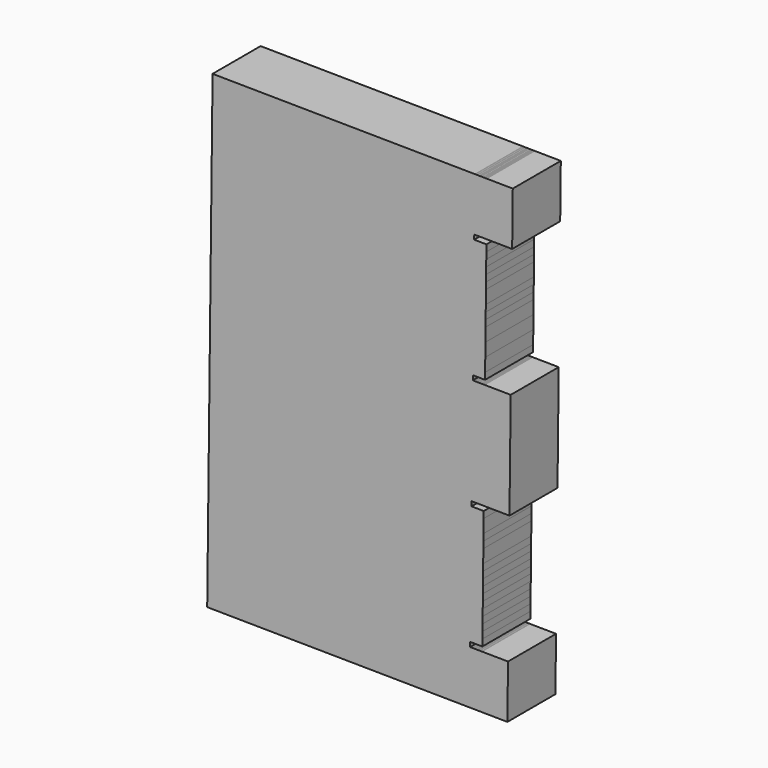
from build123d import *

# Parameters (mm, degrees)
F1_DEPTH = 100
F2_SCALE = 0.3937


with BuildPart() as f1:
    # F0 (on Front) → F1 (new body)
    with BuildSketch(Plane.XZ):
        Polygon((-253.359285, -293.078281), (-254.4597146, -389.5920072), (182.3918882, -394.5729472), (183.49976, -394.5855964), (184.6076064, -394.5982202), (185.7154782, -394.610844), (186.8233246, -394.6234932), (187.9311964, -394.636117), (189.0390428, -394.6487408), (190.1469146, -394.66139), (191.254761, -394.6740138), (192.3626328, -394.6866376), (193.4705046, -394.6992868), (194.578351, -394.7119106), (195.6862228, -394.7245344), (196.7940692, -394.7371582), (197.901941, -394.7498074), (199.0098128, -394.7624312), (200.1176592, -394.775055), (201.2255056, -394.7877042), (202.3333774, -394.800328), (245.5105834, -395.2926308), (246.524145, -306.3983966), (203.346939, -305.9061192), (202.2390672, -305.89347), (201.1312208, -305.8808462), (200.0233744, -305.8682224), (198.9155026, -305.8555732), (197.8076308, -305.8429494), (196.6997844, -305.8303256), (195.5919126, -305.8176764), (194.4840662, -305.8050526), (193.3761944, -305.7924288), (192.2683226, -305.7797796), (191.1604762, -305.7671558), (190.0526044, -305.754532), (188.944758, -305.7418828), (187.8368862, -305.729259), (186.7290398, -305.7166352), (185.621168, -305.7040114), (184.5133216, -305.6913622), (183.4054498, -305.6787384), (183.4923178, -298.059221), (203.810997, -298.2908944), (203.9373366, -287.2123034), (204.0636508, -276.133687), (204.189965, -265.055096), (204.3162792, -253.9764796), (204.4425934, -242.8978886), (204.5689076, -231.8192722), (204.6952218, -220.7406812), (204.821536, -209.6620648), (204.9478756, -198.5834738), (205.0741898, -187.5048574), (205.200504, -176.4262664), (205.3268182, -165.34765), (205.4531324, -154.2690336), (205.5794466, -143.1904426), (205.7057608, -132.1118262), (205.832075, -121.0332352), (205.9583892, -109.9546442), (206.0847288, -98.8760278), (185.7660496, -98.6443544), (185.8529176, -91.0248624), (186.960764, -91.0374862), (188.0686358, -91.05011), (189.1765076, -91.0627338), (190.284354, -91.075383), (191.3922258, -91.0880068), (192.5000722, -91.1006306), (193.607944, -91.1132798), (194.7157904, -91.1259036), (195.8236368, -91.1385274), (196.9315086, -91.1511766), (198.0393804, -91.1638004), (199.1472522, -91.1764242), (200.2550986, -91.1890734), (201.3629704, -91.2016972), (202.4708168, -91.214321), (203.5786632, -91.2269702), (204.686535, -91.239594), (205.7944068, -91.2522178), (248.9715874, -91.7445206), (250.998736, 86.0439224), (207.82153, 86.5362252), (206.7136582, 86.548849), (205.6058118, 86.5614982), (204.49794, 86.574122), (203.3900936, 86.5867458), (202.2822218, 86.5993696), (201.1743754, 86.6120188), (200.0665036, 86.6246426), (198.9586318, 86.6372664), (197.8507854, 86.6499156), (196.742939, 86.6625394), (195.6350672, 86.6751632), (194.5271954, 86.6878124), (193.419349, 86.7004362), (192.3114772, 86.71306), (191.2036308, 86.7257092), (190.095759, 86.738333), (188.9879126, 86.7509568), (187.8800408, 86.7635806), (187.9669088, 94.383098), (208.285588, 94.1514246), (208.4119276, 105.2300156), (208.5382418, 116.308632), (208.664556, 127.3872484), (208.7908702, 138.4658394), (208.9171844, 149.5444304), (209.0434986, 160.6230468), (209.1698128, 171.7016632), (209.296127, 182.7802542), (209.4224412, 193.8588706), (209.5487808, 204.937487), (209.675095, 216.016078), (209.8014092, 227.094669), (209.9277234, 238.1732854), (210.0540376, 249.2518764), (210.1803518, 260.3304928), (210.306666, 271.4090838), (210.4329802, 282.4877002), (210.5593198, 293.5663166), (190.2406406, 293.7979646), (190.3275086, 301.417482), (191.435355, 301.4048582), (192.5432268, 301.392209), (193.6510986, 301.3795852), (194.758945, 301.3669614), (195.8668168, 301.3543122), (196.9746886, 301.3416884), (198.082535, 301.3290646), (199.1903814, 301.3164154), (200.2982532, 301.3037916), (201.4060996, 301.2911678), (202.5139714, 301.278544), (203.6218432, 301.2658948), (204.7296896, 301.253271), (205.8375614, 301.2406472), (206.9454078, 301.227998), (208.0532796, 301.2153742), (209.161126, 301.2027504), (210.2689978, 301.1901012), (253.4461784, 300.6977984), (254.45974, 389.5920326), (211.2825594, 390.0843354), (210.1746876, 390.0969592), (209.0668412, 390.109583), (207.9589694, 390.1222322), (206.851123, 390.134856), (205.7432512, 390.1474798), (204.6354048, 390.160129), (203.527533, 390.1727528), (202.4196612, 390.1853766), (201.3118148, 390.1980258), (200.2039684, 390.2106496), (199.0960966, 390.2232734), (197.9882502, 390.2359226), (196.8803784, 390.2485464), (195.7725066, 390.2611702), (194.6646602, 390.2738194), (193.5567884, 390.2864432), (192.4489166, 390.299067), (191.3410702, 390.3116908), (-245.5105326, 395.2926308), (-246.6109876, 298.7789046), (-246.7373018, 287.7003136), (-246.863616, 276.6216972), (-246.9899302, 265.5431062), (-247.1162444, 254.4644898), (-247.2425586, 243.3858988), (-247.3688728, 232.3072824), (-247.495187, 221.2286914), (-247.6215266, 210.150075), (-247.7478408, 199.071484), (-247.874155, 187.9928676), (-248.0004692, 176.9142766), (-248.1267834, 165.8356602), (-248.2530976, 154.7570438), (-248.3794118, 143.6784528), (-248.505726, 132.5998618), (-248.6320402, 121.5212454), (-248.7583798, 110.442629), (-248.884694, 99.364038), (-251.0855532, -93.6634144), (-251.2118928, -104.7420308), (-251.338207, -115.8206218), (-251.4645212, -126.8992128), (-251.5908354, -137.9778292), (-251.7171496, -149.0564202), (-251.8434638, -160.1350366), (-251.969778, -171.213653), (-252.0960922, -182.292244), (-252.2224318, -193.3708604), (-252.348746, -204.4494514), (-252.4750602, -215.5280678), (-252.6013744, -226.6066588), (-252.7276886, -237.6852752), (-252.8540028, -248.7638662), (-252.980317, -259.8424826), (-253.1066312, -270.9210736), (-253.2329454, -281.99969), align=None)
    extrude(amount=F1_DEPTH)


with BuildPart() as f1_1:
    # F2: moved
    add(f1.part.scale(F2_SCALE))


solid = f1_1.part
